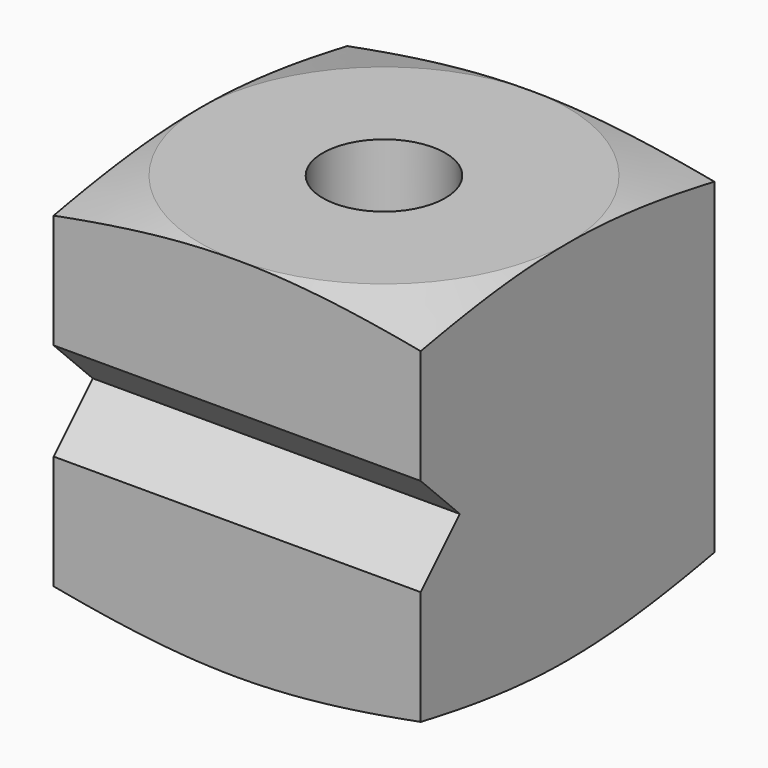
from build123d import *

# Parameters (mm, degrees)
F0_W      = 19.05
F0_H      = 19.05
F1_DEPTH  = 19.05
F2_R      = 3.175
F3_DEPTH  = 19.051
F11_DEPTH = 19.051


with BuildPart() as f1:
    # F0 (on Top) → F1 (new body)
    with BuildSketch(Plane.XY):
        with Locations((9.525, -9.525)):
            Rectangle(F0_W, F0_H)
    extrude(amount=F1_DEPTH)

    # F2 (on face) → F3 (cut, through all)
    with BuildSketch(Plane.XY.offset(19.05)):
        with Locations((9.525, -9.525)):
            Circle(F2_R)
    extrude(amount=-F3_DEPTH, mode=Mode.SUBTRACT)

    # F6 (on offset) → F7 (revolve, cut)
    with BuildSketch(Plane(origin=(9.525, 0, 0), x_dir=(0, -1, 0), z_dir=(-1, 0, 0))):
        Polygon((34.29, 19.05), (19.05, 19.05), (34.29, 14.9664543073), align=None)
    revolve(axis=Axis((9.525, -9.525, 19.05), (0, 0, 1)), mode=Mode.SUBTRACT)

    # F8 (on offset) → F9 (revolve, cut)
    with BuildSketch(Plane(origin=(9.525, 0, 0), x_dir=(0, -1, 0), z_dir=(-1, 0, 0))):
        Polygon((30.5066704714, 3.0698056008), (19.05, 0), (30.5066704714, 0), align=None)
    revolve(axis=Axis((9.525, -9.525, 0), (0, 0, -1)), mode=Mode.SUBTRACT)

    # F10 (on face) → F11 (cut, through all)
    with BuildSketch(Plane.YZ.offset(19.05)):
        Polygon((-19.05, 12.065), (-19.05, 9.525), (-16.51, 9.525), align=None)
        Polygon((-16.51, 9.525), (-19.05, 9.525), (-19.05, 6.985), align=None)
    extrude(amount=-F11_DEPTH, mode=Mode.SUBTRACT)


solid = f1.part
